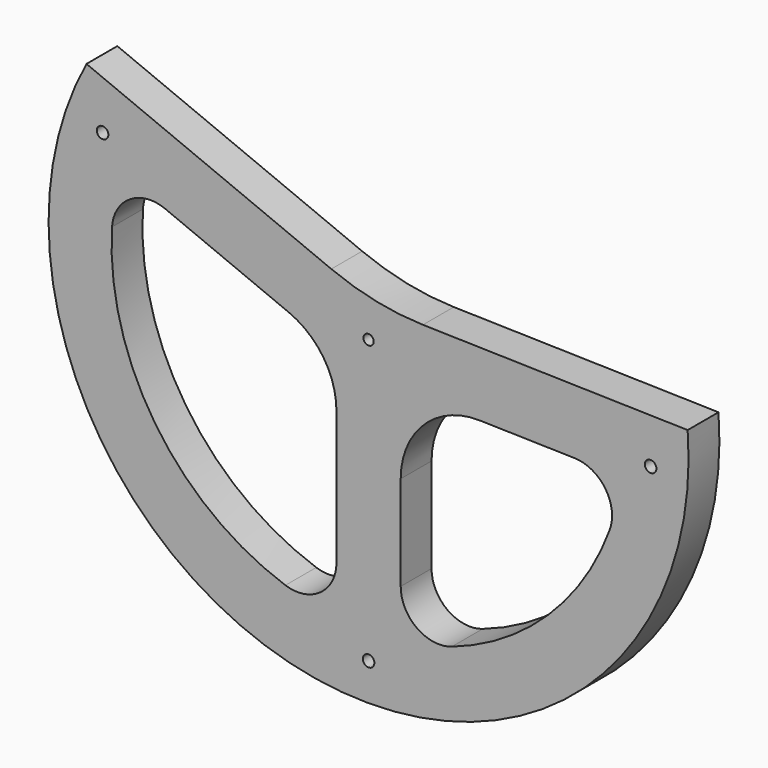
from build123d import *

# Parameters (mm, degrees)
F0_R     = 4.5
F0_R_2   = 4
F1_DEPTH = 30


with BuildPart() as f1:
    # F0 (on Front) → F1 (new body)
    with BuildSketch(Plane.XZ):
        with BuildLine():
            Line((-29.002264, 39.002804), (-219.499424, 117.562761))
            ThreePointArc((-219.499424, 117.562761), (-51.412194, -243.634534), (248.285479, 18.849956))
            Line((248.285479, 18.849956), (42.288553, 23.958889))
            ThreePointArc((42.288553, 23.958889), (5.952295, 28.207019), (-29.002264, 39.002804))
        make_face()
        with Locations((0, -220)):
            Circle(F0_R, mode=Mode.SUBTRACT)
        with BuildLine():
            ThreePointArc((-64.705882, -189.243623), (-166.207549, -111.243204), (-199.619578, 12.32981))
            ThreePointArc((-199.619578, 12.32981), (-185.586329, 35.914211), (-158.239217, 38.21453))
            Line((-158.239217, 38.21453), (-62.125152, -1.42237))
            ThreePointArc((-62.125152, -1.42237), (-35.137735, -23.51779), (-25, -56.890751))
            Line((-25, -56.890751), (-25, -160.857079))
            ThreePointArc((-25, -160.857079), (-37.5526, -185.261756), (-64.705882, -189.243623))
        make_face(mode=Mode.SUBTRACT)
        with BuildLine():
            Line((25, -160.857079), (25, -87.134223))
            ThreePointArc((25, -87.134223), (43.102841, -44.18509), (86.487603, -27.152668))
            Line((86.487603, -27.152668), (160.187797, -28.980507))
            ThreePointArc((160.187797, -28.980507), (184.27375, -42.134323), (187.581171, -69.377982))
            ThreePointArc((187.581171, -69.377982), (139.657195, -143.16378), (64.705882, -189.243623))
            ThreePointArc((64.705882, -189.243623), (37.5526, -185.261756), (25, -160.857079))
        make_face(mode=Mode.SUBTRACT)
        Circle(F0_R_2, mode=Mode.SUBTRACT)
        with Locations((-206.985447, 74.545455)):
            Circle(F0_R, mode=Mode.SUBTRACT)
        with Locations((219.456504, -15.454545)):
            Circle(F0_R, mode=Mode.SUBTRACT)
    extrude(amount=F1_DEPTH)


solid = f1.part
